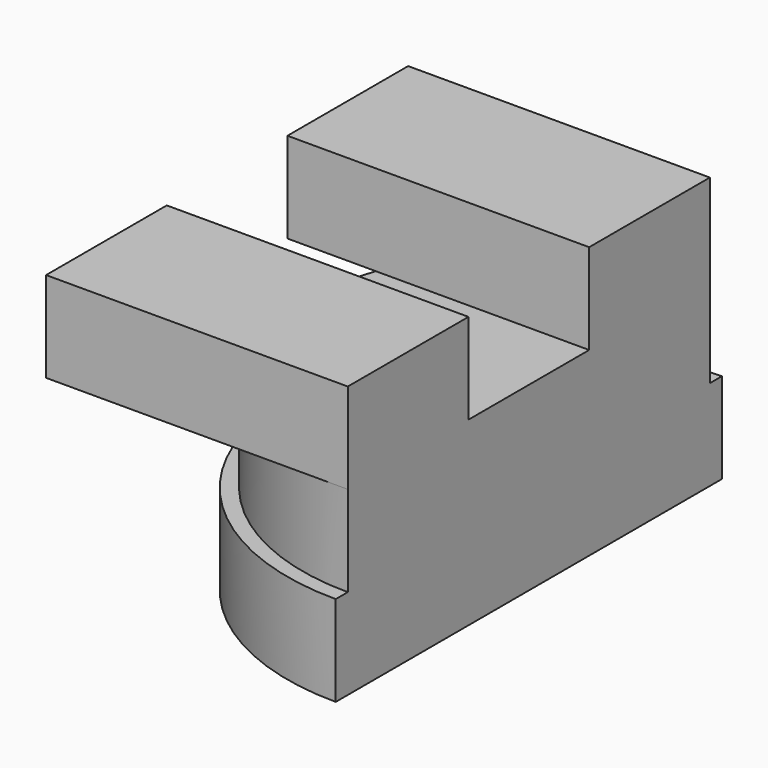
from build123d import *

# Parameters (mm, degrees)
F1_DEPTH = 3
F2_DEPTH = 3
F4_DEPTH = 3


with BuildPart() as f1:
    # F0 (on Top) → F1 (new body)
    with BuildSketch(Plane.XY):
        with BuildLine():
            Line((0, 2.5), (-7.0710678119, 2.5))
            ThreePointArc((-7.0710678119, 2.5), (-7.5, 0), (-7.0710678119, -2.5))
            Line((-7.0710678119, -2.5), (0, -2.5))
            Line((0, -2.5), (0, 0))
            Line((0, 0), (0, 2.5))
        make_face()
        with BuildLine():
            ThreePointArc((-7.0710678119, -2.5), (-4.3301270189, -6.123724357), (0, -7.5))
            Line((0, -7.5), (0, -2.5))
            Line((0, -2.5), (-7.0710678119, -2.5))
        make_face()
        with BuildLine():
            Line((0, 2.5), (0, 7.5))
            ThreePointArc((0, 7.5), (-4.3301270189, 6.123724357), (-7.0710678119, 2.5))
            Line((-7.0710678119, 2.5), (0, 2.5))
        make_face()
    extrude(amount=-F1_DEPTH)

    # F0 (on Top) → F2 (join)
    with BuildSketch(Plane.XY):
        with BuildLine():
            ThreePointArc((-7.0710678119, 2.5), (-4.3301270189, 6.123724357), (0, 7.5))
            Line((0, 7.5), (-10, 7.5))
            Line((-10, 7.5), (-10, 2.5))
            Line((-10, 2.5), (-7.0710678119, 2.5))
        make_face()
        with BuildLine():
            Line((0, 2.5), (0, 7.5))
            ThreePointArc((0, 7.5), (-4.3301270189, 6.123724357), (-7.0710678119, 2.5))
            Line((-7.0710678119, 2.5), (0, 2.5))
        make_face()
        with BuildLine():
            Line((-10, -7.5), (0, -7.5))
            ThreePointArc((0, -7.5), (-4.3301270189, -6.123724357), (-7.0710678119, -2.5))
            Line((-7.0710678119, -2.5), (-10, -2.5))
            Line((-10, -2.5), (-10, -7.5))
        make_face()
        with BuildLine():
            ThreePointArc((-7.0710678119, -2.5), (-4.3301270189, -6.123724357), (0, -7.5))
            Line((0, -7.5), (0, -2.5))
            Line((0, -2.5), (-7.0710678119, -2.5))
        make_face()
    extrude(amount=F2_DEPTH)

    # F3 (on face) → F4 (join)
    with BuildSketch(Plane(origin=(0, 0, -3), x_dir=(1, 0, 0), z_dir=(0, 0, -1))):
        with BuildLine():
            Line((0, -7.5), (0, 7.5))
            ThreePointArc((0, 7.5), (-7.5, 0), (0, -7.5))
        make_face()
        with BuildLine():
            Line((0, 7.5), (0, 8))
            ThreePointArc((0, 8), (-8, 0), (0, -8))
            Line((0, -8), (0, -7.5))
            ThreePointArc((0, -7.5), (-7.5, 0), (0, 7.5))
        make_face()
    extrude(amount=F4_DEPTH)


solid = f1.part
